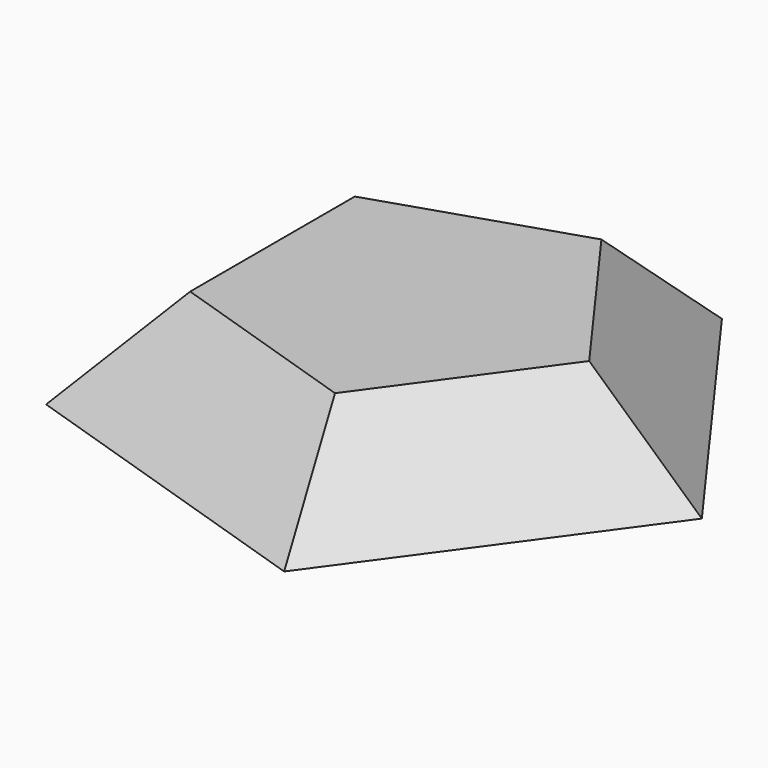
from build123d import *


with BuildPart() as f3:
    # F1 (on Top) → F3 section 0
    with BuildSketch(Plane.XY):
        Polygon((-56.994043, 41.408596), (-56.994043, -41.408596), (21.769787, -67.000516), (70.448512, 0), (21.769787, 67.000516), align=None)
    # F2 (on offset) → F3 section 1
    with BuildSketch(Plane.XY.offset(25)):
        Polygon((-34.681097, 25.197292), (-34.681097, -25.197292), (13.247, -40.770074), (42.868193, 0), (13.247, 40.770074), align=None)
    loft()


solid = f3.part
